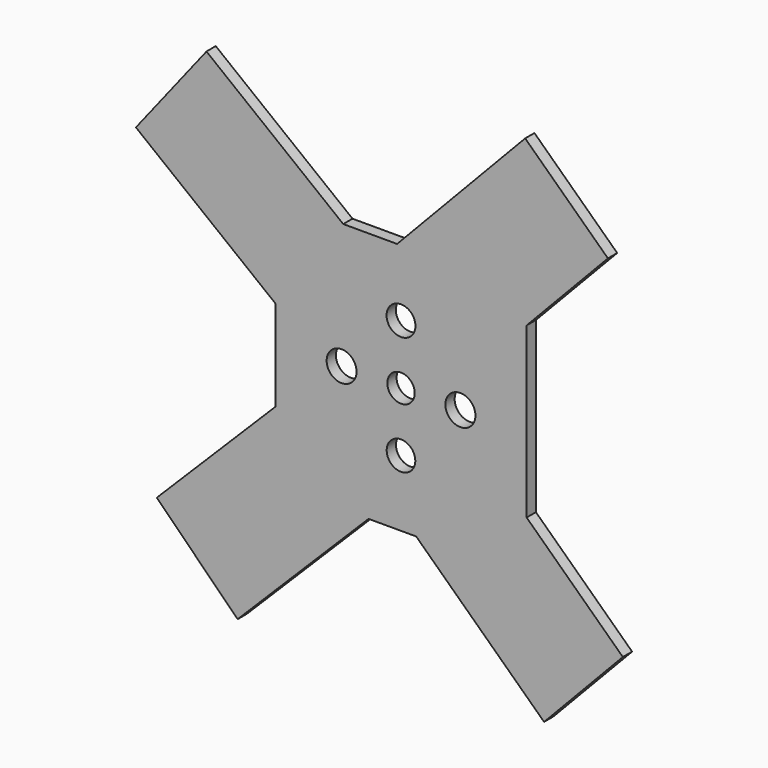
from build123d import *

# Parameters (mm, degrees)
F0_W     = 55
F0_H     = 55
F0_R     = 3.132813
F0_R_2   = 3.273598
F0_R_3   = 3
F0_R_4   = 3.290695
F0_R_5   = 3.156981
F1_DEPTH = 2.54
F3_DEPTH = 2.54
F4_DEPTH = 2.54


with BuildPart() as f1:
    # F0 (on Front) → F1 (new body)
    with BuildSketch(Plane.XZ):
        Rectangle(F0_W, F0_H)
        with Locations((0, -13)):
            Circle(F0_R, mode=Mode.SUBTRACT)
        with Locations((-13, 0)):
            Circle(F0_R_2, mode=Mode.SUBTRACT)
        Circle(F0_R_3, mode=Mode.SUBTRACT)
        with Locations((13, 0)):
            Circle(F0_R_4, mode=Mode.SUBTRACT)
        with Locations((0, 13)):
            Circle(F0_R_5, mode=Mode.SUBTRACT)
    extrude(amount=F1_DEPTH)

    # F2 (on Front) → F3 (join)
    with BuildSketch(Plane.XZ):
        Polygon((27.176162, 56.960059), (-2.272366, 26.004693), (-2.272366, 25.895225), (15.78599, 8.715909), (45.289185, 39.728738), align=None)
    extrude(amount=F3_DEPTH)

    # F2 (on Front) → F4 (join)
    with BuildSketch(Plane.XZ):
        Polygon((-5.332045, -25.728772), (-23.22517, -8.266557), (-53.441247, -38.482634), (-35.763578, -56.160304), align=None)
        Polygon((19.693311, -8.566808), (2.620379, -26.830509), (31.317548, -54.130764), (48.548869, -36.017741), align=None)
        Polygon((-26.064494, 6.253897), (-10.96375, 26.182832), (-42.571661, 51.02363), (-58.019511, 31.367487), align=None)
    extrude(amount=F4_DEPTH)


solid = f1.part
